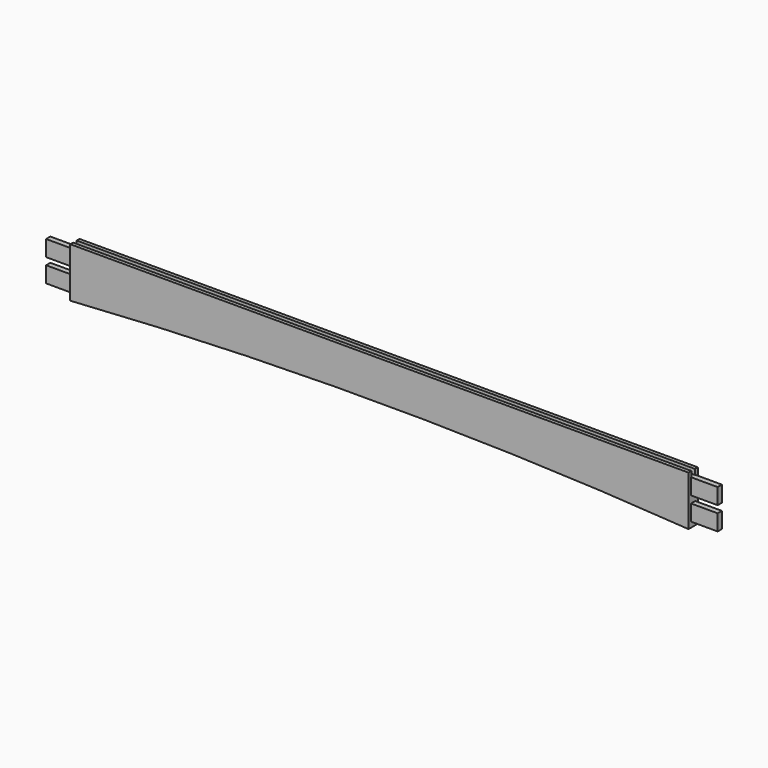
from build123d import *

# Parameters (mm, degrees)
F1_DEPTH = 20.6375
F2_W     = 9.525
F2_H     = 28.575
F3_DEPTH = 47.625
F4_W     = 9.525
F4_H     = 28.575
F5_DEPTH = 47.625
F6_W     = 1104.9
F6_H     = 7.9375
F7_DEPTH = 9.525


with BuildPart() as f1:
    # F0 (on Front) → F1 (new body)
    with BuildSketch(Plane.XZ):
        with BuildLine():
            Line((552.45, 0), (0, 0))
            Line((0, 0), (-552.45, 0))
            Line((-552.45, 0), (-552.45, -88.9))
            ThreePointArc((-552.45, -88.9), (0, -69.85), (552.45, -88.9))
            Line((552.45, -88.9), (552.45, 0))
        make_face()
    extrude(amount=-F1_DEPTH)

    # F2 (on face) → F3 (join)
    with BuildSketch(Plane(origin=(-552.45, 0, 0), x_dir=(0, -1, 0), z_dir=(-1, 0, 0))):
        with Locations((-10.31875, -23.8125)):
            Rectangle(F2_W, F2_H)
        with Locations((-10.31875, -65.0875)):
            Rectangle(F2_W, F2_H)
    extrude(amount=F3_DEPTH)

    # F4 (on face) → F5 (join)
    with BuildSketch(Plane.YZ.offset(552.45)):
        with Locations((10.31875, -23.8125)):
            Rectangle(F4_W, F4_H)
        with Locations((10.31875, -65.0875)):
            Rectangle(F4_W, F4_H)
    extrude(amount=F5_DEPTH)

    # F6 (on face) → F7 (cut)
    with BuildSketch(Plane.XY):
        with Locations((0, 10.31875)):
            Rectangle(F6_W, F6_H)
    extrude(amount=-F7_DEPTH, mode=Mode.SUBTRACT)


solid = f1.part
